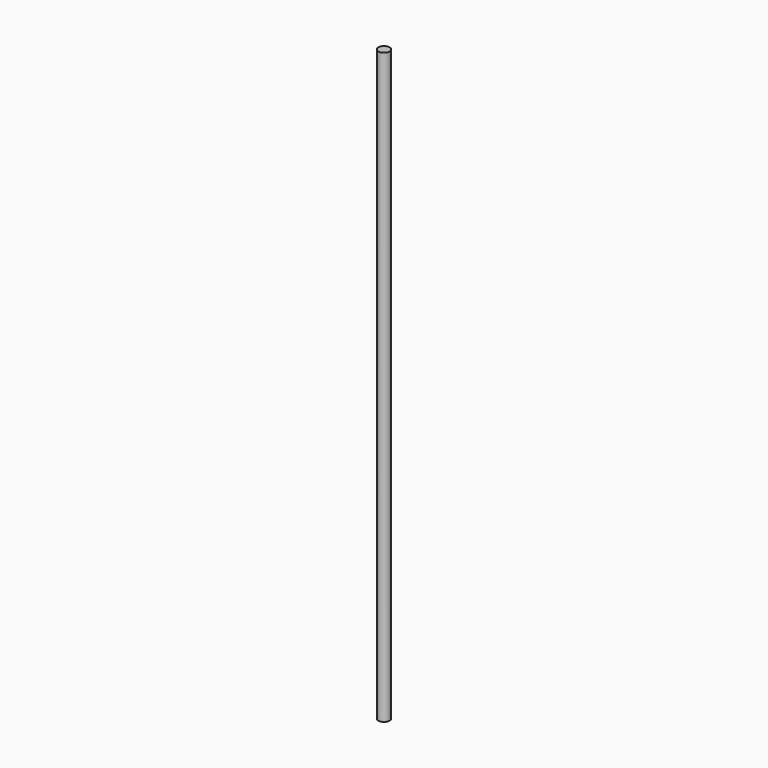
from build123d import *

# Parameters (mm, degrees)
SKETCH001_W = 3.83
SKETCH001_H = 400


with BuildPart() as part:
    # Sketch001 → Revolution001 (revolve)
    with BuildSketch(Plane.XZ):
        with Locations((-1.915, 200)):
            Rectangle(SKETCH001_W, SKETCH001_H)
    revolve(axis=Axis((0, 0, 0), (0, 0, 1)))


solid = part.part
